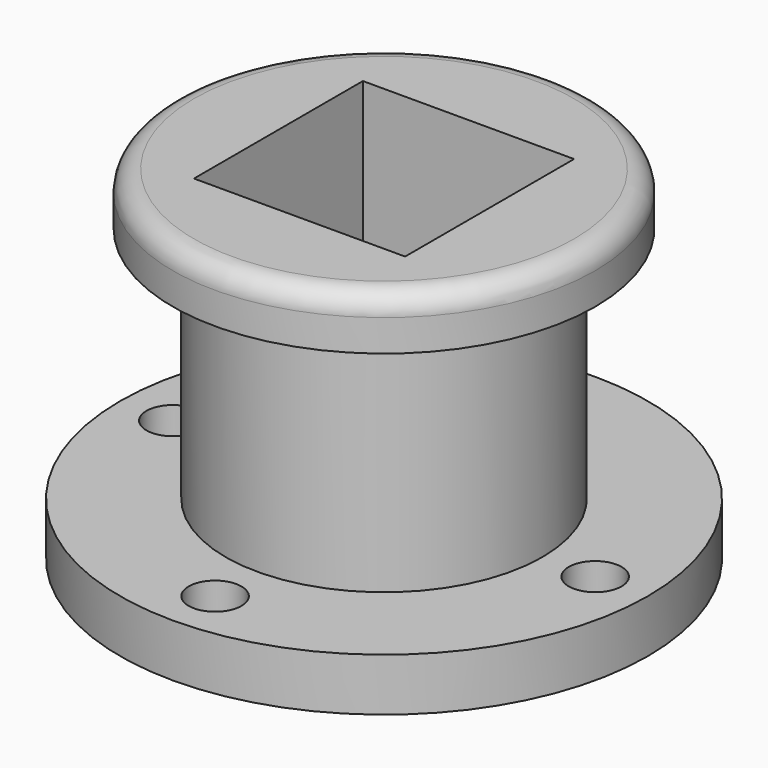
from build123d import *

# Parameters (mm, degrees)
F0_R     = 63.5
F0_R_2   = 6.35
F1_DEPTH = 12.7
F3_R     = 38.1
F4_DEPTH = 57.15
F5_R     = 50.8
F6_DEPTH = 12.7
F7_R     = 5.08
F8_W     = 50.8
F8_H     = 50.8
F9_DEPTH = 101.6


with BuildPart() as f1:
    # F0 (on Top) → F1 (new body)
    with BuildSketch(Plane.XY):
        Circle(F0_R)
        with Locations((0, -50.8)):
            Circle(F0_R_2, mode=Mode.SUBTRACT)
        with Locations((-50.8, 0)):
            Circle(F0_R_2, mode=Mode.SUBTRACT)
        with Locations((50.8, 0)):
            Circle(F0_R_2, mode=Mode.SUBTRACT)
        with Locations((0, 50.8)):
            Circle(F0_R_2, mode=Mode.SUBTRACT)
    extrude(amount=F1_DEPTH)

    # F3 (on face) → F4 (join)
    with BuildSketch(Plane.XY.offset(12.7)):
        Circle(F3_R)
    extrude(amount=F4_DEPTH)

    # F5 (on face) → F6 (join)
    with BuildSketch(Plane.XY.offset(69.85)):
        Circle(F5_R)
    extrude(amount=F6_DEPTH)

    # F7
    f7_edges = [f1.edges().sort_by_distance(p)[0] for p in [
        (-50.8, 0, 82.55),
    ]]
    fillet(f7_edges, radius=F7_R)

    # F8 (on face) → F9 (cut)
    with BuildSketch(Plane.XY.offset(82.55)):
        Rectangle(F8_W, F8_H)
    extrude(amount=-F9_DEPTH, mode=Mode.SUBTRACT)


solid = f1.part
